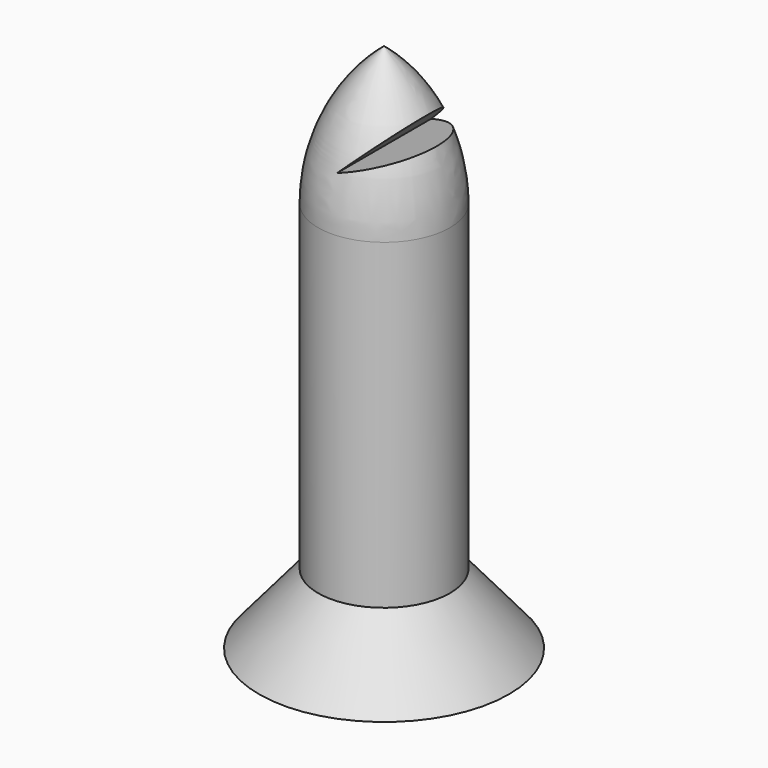
from build123d import *

# Parameters (mm, degrees)
F3_DEPTH      = 19.05
F3_DEPTH_BACK = 25.4


with BuildPart() as f1:
    # F0 (on Front) → F1 (revolve)
    with BuildSketch(Plane.XZ):
        with BuildLine():
            ThreePointArc((6.760946, 40.144615), (4.984419, 48.007191), (0, 54.342151))
            Line((0, 54.342151), (0, 40.144615))
            Line((0, 40.144615), (6.760946, 40.144615))
        make_face()
        Polygon((6.760946, 40.144615), (0, 40.144615), (0, 0), (12.815776, 0), (6.760946, 7.156222), align=None)
    revolve(axis=Axis((0, 0, 27.171075), (0, 0, -1)))

    # F2 (on Front) → F3 (cut, two sides)
    with BuildSketch(Plane.XZ) as f3_sk:
        Polygon((5.37528, 50.489806), (0, 45.32586), (7.021396, 47.57745), align=None)
    extrude(amount=F3_DEPTH, mode=Mode.SUBTRACT)
    extrude(f3_sk.sketch, amount=-F3_DEPTH_BACK, mode=Mode.SUBTRACT)


solid = f1.part
